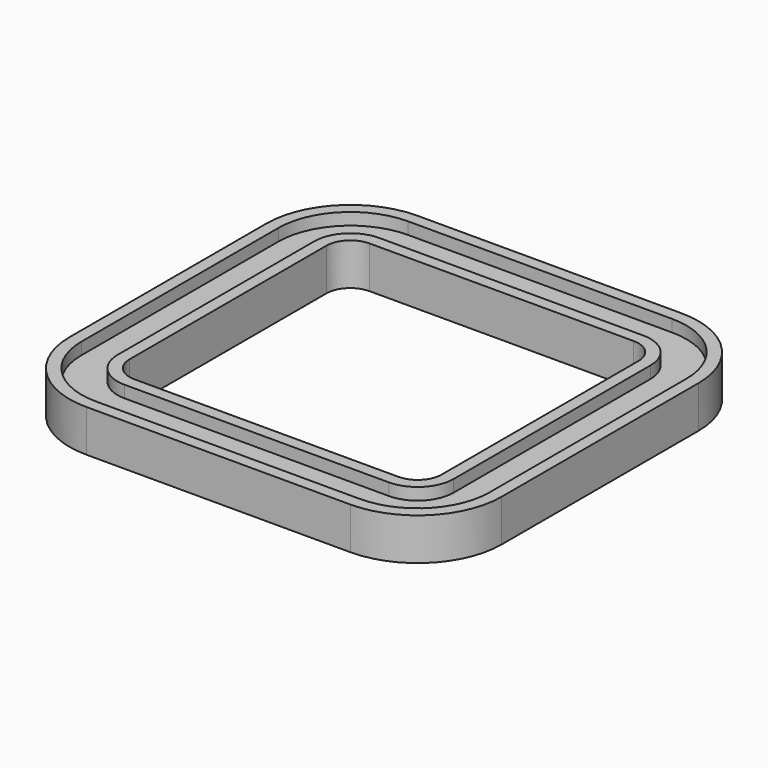
from build123d import *

# Parameters (mm, degrees)
F1_DEPTH = 15.875
F2_DEPTH = 9.525
F3_DEPTH = 6.35


with BuildPart() as f1:
    # F0 (on Top) → F1 (new body)
    with BuildSketch(Plane.XY):
        with BuildLine():
            ThreePointArc((-69.85, 109.5375), (-101.2808964237, 96.5183964237), (-114.3, 65.0875))
            Line((-114.3, 65.0875), (-114.3, -65.0875))
            ThreePointArc((-114.3, -65.0875), (-101.2808964237, -96.5183964237), (-69.85, -109.5375))
            Line((-69.85, -109.5375), (69.85, -109.5375))
            ThreePointArc((69.85, -109.5375), (101.2808964237, -96.5183964237), (114.3, -65.0875))
            Line((114.3, -65.0875), (114.3, 65.0875))
            ThreePointArc((114.3, 65.0875), (101.2808964237, 96.5183964237), (69.85, 109.5375))
            Line((69.85, 109.5375), (-69.85, 109.5375))
        make_face()
        with BuildLine():
            Line((-69.85, 103.187499407), (69.85, 103.187499407))
            ThreePointArc((69.85, 103.187499407), (96.7907679439, 92.0282679439), (107.949999407, 65.0875))
            Line((107.949999407, 65.0875), (107.949999407, -65.0875))
            ThreePointArc((107.949999407, -65.0875), (96.7907679439, -92.0282679439), (69.85, -103.187499407))
            Line((69.85, -103.187499407), (-69.85, -103.187499407))
            ThreePointArc((-69.85, -103.187499407), (-96.7907679439, -92.0282679439), (-107.949999407, -65.0875))
            Line((-107.949999407, -65.0875), (-107.949999407, 65.0875))
            ThreePointArc((-107.949999407, 65.0875), (-96.7907679439, 92.0282679439), (-69.85, 103.187499407))
        make_face(mode=Mode.SUBTRACT)
        with BuildLine():
            ThreePointArc((107.949999407, 65.0875), (96.7907679439, 92.0282679439), (69.85, 103.187499407))
            Line((69.85, 103.187499407), (-69.85, 103.187499407))
            ThreePointArc((-69.85, 103.187499407), (-96.7907679439, 92.0282679439), (-107.949999407, 65.0875))
            Line((-107.949999407, 65.0875), (-107.949999407, -65.0875))
            ThreePointArc((-107.949999407, -65.0875), (-96.7907679439, -92.0282679439), (-69.85, -103.187499407))
            Line((-69.85, -103.187499407), (69.85, -103.187499407))
            ThreePointArc((69.85, -103.187499407), (96.7907679439, -92.0282679439), (107.949999407, -65.0875))
            Line((107.949999407, -65.0875), (107.949999407, 65.0875))
        make_face()
        with BuildLine():
            Line((-107.187999407, -65.0875), (-107.187999407, 65.0875))
            ThreePointArc((-107.187999407, 65.0875), (-96.2519525766, 91.4894525766), (-69.85, 102.425499407))
            Line((-69.85, 102.425499407), (69.85, 102.425499407))
            ThreePointArc((69.85, 102.425499407), (96.2519525766, 91.4894525766), (107.187999407, 65.0875))
            Line((107.187999407, 65.0875), (107.187999407, -65.0875))
            ThreePointArc((107.187999407, -65.0875), (96.2519525766, -91.4894525766), (69.85, -102.425499407))
            Line((69.85, -102.425499407), (-69.85, -102.425499407))
            ThreePointArc((-69.85, -102.425499407), (-96.2519525766, -91.4894525766), (-107.187999407, -65.0875))
        make_face(mode=Mode.SUBTRACT)
        with BuildLine():
            ThreePointArc((-69.85, 102.425499407), (-96.2519525766, 91.4894525766), (-107.187999407, 65.0875))
            Line((-107.187999407, 65.0875), (-107.187999407, -65.0875))
            ThreePointArc((-107.187999407, -65.0875), (-96.2519525766, -91.4894525766), (-69.85, -102.425499407))
            Line((-69.85, -102.425499407), (69.85, -102.425499407))
            ThreePointArc((69.85, -102.425499407), (96.2519525766, -91.4894525766), (107.187999407, -65.0875))
            Line((107.187999407, -65.0875), (107.187999407, 65.0875))
            ThreePointArc((107.187999407, 65.0875), (96.2519525766, 91.4894525766), (69.85, 102.425499407))
            Line((69.85, 102.425499407), (-69.85, 102.425499407))
        make_face()
        with BuildLine():
            Line((-89.662, -65.0875), (-89.662, 65.0875))
            ThreePointArc((-89.662, 65.0875), (-83.8591995489, 79.0966995489), (-69.85, 84.8995))
            Line((-69.85, 84.8995), (69.85, 84.8995))
            ThreePointArc((69.85, 84.8995), (83.8591995489, 79.0966995489), (89.662, 65.0875))
            Line((89.662, 65.0875), (89.662, -65.0875))
            ThreePointArc((89.662, -65.0875), (83.8591995489, -79.0966995489), (69.85, -84.8995))
            Line((69.85, -84.8995), (-69.85, -84.8995))
            ThreePointArc((-69.85, -84.8995), (-83.8591995489, -79.0966995489), (-89.662, -65.0875))
        make_face(mode=Mode.SUBTRACT)
        with BuildLine():
            ThreePointArc((-69.85, 84.8995), (-83.8591995489, 79.0966995489), (-89.662, 65.0875))
            Line((-89.662, 65.0875), (-89.662, -65.0875))
            ThreePointArc((-89.662, -65.0875), (-83.8591995489, -79.0966995489), (-69.85, -84.8995))
            Line((-69.85, -84.8995), (69.85, -84.8995))
            ThreePointArc((69.85, -84.8995), (83.8591995489, -79.0966995489), (89.662, -65.0875))
            Line((89.662, -65.0875), (89.662, 65.0875))
            ThreePointArc((89.662, 65.0875), (83.8591995489, 79.0966995489), (69.85, 84.8995))
            Line((69.85, 84.8995), (-69.85, 84.8995))
        make_face()
        with BuildLine():
            ThreePointArc((-88.9, 65.0875), (-83.3203841816, 78.5578841816), (-69.85, 84.1375))
            Line((-69.85, 84.1375), (69.85, 84.1375))
            ThreePointArc((69.85, 84.1375), (83.3203841816, 78.5578841816), (88.9, 65.0875))
            Line((88.9, 65.0875), (88.9, -65.0875))
            ThreePointArc((88.9, -65.0875), (83.3203841816, -78.5578841816), (69.85, -84.1375))
            Line((69.85, -84.1375), (-69.85, -84.1375))
            ThreePointArc((-69.85, -84.1375), (-83.3203841816, -78.5578841816), (-88.9, -65.0875))
            Line((-88.9, -65.0875), (-88.9, 65.0875))
        make_face(mode=Mode.SUBTRACT)
        with BuildLine():
            Line((69.85, 84.1375), (-69.85, 84.1375))
            ThreePointArc((-69.85, 84.1375), (-83.3203841816, 78.5578841816), (-88.9, 65.0875))
            Line((-88.9, 65.0875), (-88.9, -65.0875))
            ThreePointArc((-88.9, -65.0875), (-83.3203841816, -78.5578841816), (-69.85, -84.1375))
            Line((-69.85, -84.1375), (69.85, -84.1375))
            ThreePointArc((69.85, -84.1375), (83.3203841816, -78.5578841816), (88.9, -65.0875))
            Line((88.9, -65.0875), (88.9, 65.0875))
            ThreePointArc((88.9, 65.0875), (83.3203841816, 78.5578841816), (69.85, 84.1375))
        make_face()
        with BuildLine():
            Line((-69.85, 77.7875), (69.85, 77.7875))
            ThreePointArc((69.85, 77.7875), (78.8302561211, 74.0677561211), (82.55, 65.0875))
            Line((82.55, 65.0875), (82.55, -65.0875))
            ThreePointArc((82.55, -65.0875), (78.8302561211, -74.0677561211), (69.85, -77.7875))
            Line((69.85, -77.7875), (-69.85, -77.7875))
            ThreePointArc((-69.85, -77.7875), (-78.8302561211, -74.0677561211), (-82.55, -65.0875))
            Line((-82.55, -65.0875), (-82.55, 65.0875))
            ThreePointArc((-82.55, 65.0875), (-78.8302561211, 74.0677561211), (-69.85, 77.7875))
        make_face(mode=Mode.SUBTRACT)
    extrude(amount=-F1_DEPTH)

    # F0 (on Top) → F2 (cut)
    with BuildSketch(Plane.XY):
        with BuildLine():
            ThreePointArc((107.949999407, 65.0875), (96.7907679439, 92.0282679439), (69.85, 103.187499407))
            Line((69.85, 103.187499407), (-69.85, 103.187499407))
            ThreePointArc((-69.85, 103.187499407), (-96.7907679439, 92.0282679439), (-107.949999407, 65.0875))
            Line((-107.949999407, 65.0875), (-107.949999407, -65.0875))
            ThreePointArc((-107.949999407, -65.0875), (-96.7907679439, -92.0282679439), (-69.85, -103.187499407))
            Line((-69.85, -103.187499407), (69.85, -103.187499407))
            ThreePointArc((69.85, -103.187499407), (96.7907679439, -92.0282679439), (107.949999407, -65.0875))
            Line((107.949999407, -65.0875), (107.949999407, 65.0875))
        make_face()
        with BuildLine():
            Line((-107.187999407, -65.0875), (-107.187999407, 65.0875))
            ThreePointArc((-107.187999407, 65.0875), (-96.2519525766, 91.4894525766), (-69.85, 102.425499407))
            Line((-69.85, 102.425499407), (69.85, 102.425499407))
            ThreePointArc((69.85, 102.425499407), (96.2519525766, 91.4894525766), (107.187999407, 65.0875))
            Line((107.187999407, 65.0875), (107.187999407, -65.0875))
            ThreePointArc((107.187999407, -65.0875), (96.2519525766, -91.4894525766), (69.85, -102.425499407))
            Line((69.85, -102.425499407), (-69.85, -102.425499407))
            ThreePointArc((-69.85, -102.425499407), (-96.2519525766, -91.4894525766), (-107.187999407, -65.0875))
        make_face(mode=Mode.SUBTRACT)
        with BuildLine():
            ThreePointArc((-69.85, 102.425499407), (-96.2519525766, 91.4894525766), (-107.187999407, 65.0875))
            Line((-107.187999407, 65.0875), (-107.187999407, -65.0875))
            ThreePointArc((-107.187999407, -65.0875), (-96.2519525766, -91.4894525766), (-69.85, -102.425499407))
            Line((-69.85, -102.425499407), (69.85, -102.425499407))
            ThreePointArc((69.85, -102.425499407), (96.2519525766, -91.4894525766), (107.187999407, -65.0875))
            Line((107.187999407, -65.0875), (107.187999407, 65.0875))
            ThreePointArc((107.187999407, 65.0875), (96.2519525766, 91.4894525766), (69.85, 102.425499407))
            Line((69.85, 102.425499407), (-69.85, 102.425499407))
        make_face()
        with BuildLine():
            Line((-89.662, -65.0875), (-89.662, 65.0875))
            ThreePointArc((-89.662, 65.0875), (-83.8591995489, 79.0966995489), (-69.85, 84.8995))
            Line((-69.85, 84.8995), (69.85, 84.8995))
            ThreePointArc((69.85, 84.8995), (83.8591995489, 79.0966995489), (89.662, 65.0875))
            Line((89.662, 65.0875), (89.662, -65.0875))
            ThreePointArc((89.662, -65.0875), (83.8591995489, -79.0966995489), (69.85, -84.8995))
            Line((69.85, -84.8995), (-69.85, -84.8995))
            ThreePointArc((-69.85, -84.8995), (-83.8591995489, -79.0966995489), (-89.662, -65.0875))
        make_face(mode=Mode.SUBTRACT)
    extrude(amount=F2_DEPTH, mode=Mode.SUBTRACT)

    # F0 (on Top) → F3 (join)
    with BuildSketch(Plane.XY):
        with BuildLine():
            ThreePointArc((-69.85, 109.5375), (-101.2808964237, 96.5183964237), (-114.3, 65.0875))
            Line((-114.3, 65.0875), (-114.3, -65.0875))
            ThreePointArc((-114.3, -65.0875), (-101.2808964237, -96.5183964237), (-69.85, -109.5375))
            Line((-69.85, -109.5375), (69.85, -109.5375))
            ThreePointArc((69.85, -109.5375), (101.2808964237, -96.5183964237), (114.3, -65.0875))
            Line((114.3, -65.0875), (114.3, 65.0875))
            ThreePointArc((114.3, 65.0875), (101.2808964237, 96.5183964237), (69.85, 109.5375))
            Line((69.85, 109.5375), (-69.85, 109.5375))
        make_face()
        with BuildLine():
            Line((-69.85, 103.187499407), (69.85, 103.187499407))
            ThreePointArc((69.85, 103.187499407), (96.7907679439, 92.0282679439), (107.949999407, 65.0875))
            Line((107.949999407, 65.0875), (107.949999407, -65.0875))
            ThreePointArc((107.949999407, -65.0875), (96.7907679439, -92.0282679439), (69.85, -103.187499407))
            Line((69.85, -103.187499407), (-69.85, -103.187499407))
            ThreePointArc((-69.85, -103.187499407), (-96.7907679439, -92.0282679439), (-107.949999407, -65.0875))
            Line((-107.949999407, -65.0875), (-107.949999407, 65.0875))
            ThreePointArc((-107.949999407, 65.0875), (-96.7907679439, 92.0282679439), (-69.85, 103.187499407))
        make_face(mode=Mode.SUBTRACT)
        with BuildLine():
            Line((69.85, 84.1375), (-69.85, 84.1375))
            ThreePointArc((-69.85, 84.1375), (-83.3203841816, 78.5578841816), (-88.9, 65.0875))
            Line((-88.9, 65.0875), (-88.9, -65.0875))
            ThreePointArc((-88.9, -65.0875), (-83.3203841816, -78.5578841816), (-69.85, -84.1375))
            Line((-69.85, -84.1375), (69.85, -84.1375))
            ThreePointArc((69.85, -84.1375), (83.3203841816, -78.5578841816), (88.9, -65.0875))
            Line((88.9, -65.0875), (88.9, 65.0875))
            ThreePointArc((88.9, 65.0875), (83.3203841816, 78.5578841816), (69.85, 84.1375))
        make_face()
        with BuildLine():
            Line((-69.85, 77.7875), (69.85, 77.7875))
            ThreePointArc((69.85, 77.7875), (78.8302561211, 74.0677561211), (82.55, 65.0875))
            Line((82.55, 65.0875), (82.55, -65.0875))
            ThreePointArc((82.55, -65.0875), (78.8302561211, -74.0677561211), (69.85, -77.7875))
            Line((69.85, -77.7875), (-69.85, -77.7875))
            ThreePointArc((-69.85, -77.7875), (-78.8302561211, -74.0677561211), (-82.55, -65.0875))
            Line((-82.55, -65.0875), (-82.55, 65.0875))
            ThreePointArc((-82.55, 65.0875), (-78.8302561211, 74.0677561211), (-69.85, 77.7875))
        make_face(mode=Mode.SUBTRACT)
    extrude(amount=F3_DEPTH)


solid = f1.part
